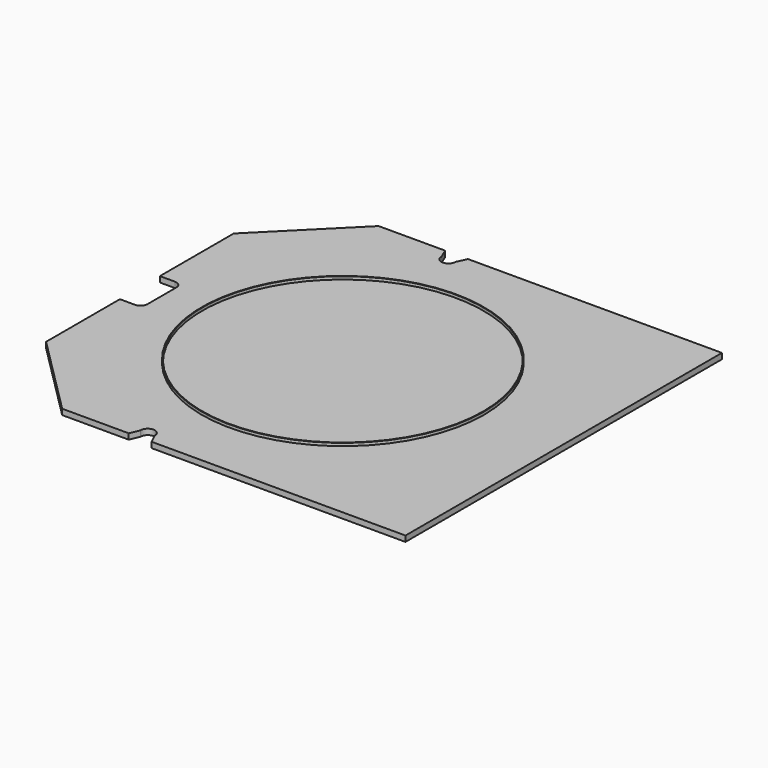
from build123d import *

# Parameters (mm, degrees)
F0_W     = 150
F0_H     = 140
F1_DEPTH = 2
F2_R     = 2.5
F3_DEPTH = 5
F4_R     = 50
F4_R_2   = 49.75
F5_DEPTH = 1


with BuildPart() as f1:
    # F0 (on Top) → F1 (new body)
    with BuildSketch(Plane.XY):
        Rectangle(F0_W, F0_H)
    extrude(amount=F1_DEPTH)

    # F2 (on face) → F3 (cut)
    with BuildSketch(Plane.XY.offset(2)):
        Polygon((-75, 70), (-75, 41.5), (-46.5, 70), align=None)
        with Locations((-64, 57.6)):
            Circle(F2_R, mode=Mode.SUBTRACT)
        Polygon((-46.5, -70), (-75, -41.5), (-75, -70), align=None)
        with Locations((-64, -57.6)):
            Circle(F2_R, mode=Mode.SUBTRACT)
        with BuildLine():
            Line((-67.1845650673, -6.35), (-67.1845650673, 6.35))
            ThreePointArc((-67.1845650673, 6.35), (-67.9167981143, 8.117766953), (-69.6845650673, 8.85))
            Line((-69.6845650673, 8.85), (-75, 8.85))
            Line((-75, 8.85), (-75, -8.85))
            Line((-75, -8.85), (-69.6845650673, -8.85))
            ThreePointArc((-69.6845650673, -8.85), (-67.9167981143, -8.117766953), (-67.1845650673, -6.35))
        make_face()
        with BuildLine():
            Line((-21.499911428, -66.5210440509), (-22.940942165, -70))
            Line((-22.940942165, -70), (-14.8778247705, -70))
            Line((-14.8778247705, -70), (-16.500088572, -66.5210440509))
            ThreePointArc((-16.500088572, -66.5210440509), (-19, -64), (-21.499911428, -66.5210440509))
        make_face()
        with BuildLine():
            Line((-14.8778247705, 70), (-22.940942165, 70))
            Line((-22.940942165, 70), (-21.499911428, 66.5210440509))
            ThreePointArc((-21.499911428, 66.5210440509), (-19, 64), (-16.500088572, 66.5210440509))
            Line((-16.500088572, 66.5210440509), (-14.8778247705, 70))
        make_face()
        with Locations((-64, 57.6)):
            Circle(F2_R)
        with Locations((-64, -57.6)):
            Circle(F2_R)
    extrude(amount=-F3_DEPTH, mode=Mode.SUBTRACT)

    # F4 (on face) → F5 (join)
    with BuildSketch(Plane.XY.offset(2)):
        with Locations((-3.16328, 0)):
            Circle(F4_R)
        with Locations((-3.16328, 0)):
            Circle(F4_R_2, mode=Mode.SUBTRACT)
    extrude(amount=F5_DEPTH)


solid = f1.part
